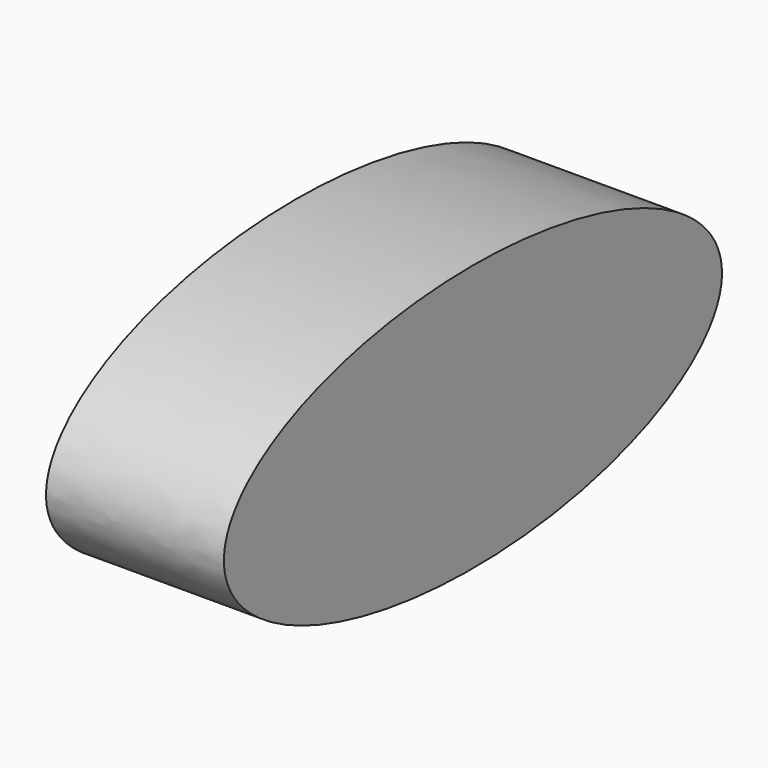
from build123d import *

# Parameters (mm, degrees)
F1_DEPTH = 50.8


with BuildPart() as f1:
    # F0 (on Right) → F1 (new body)
    with BuildSketch(Plane.YZ):
        with BuildLine():
            add(Edge.make_bspline(
                [(0, 38.1), (-153.979317, 38.1), (-76.989658, -19.05), (0, -76.2), (76.989658, -19.05), (153.979317, 38.1), (0, 38.1)],
                knots=[4.712389, 4.712389, 4.712389, 6.806784, 6.806784, 8.901179, 8.901179, 10.995574, 10.995574, 10.995574], degree=2, weights=[1, 0.5, 1, 0.5, 1, 0.5, 1]))
        make_face()
    extrude(amount=F1_DEPTH)


solid = f1.part
